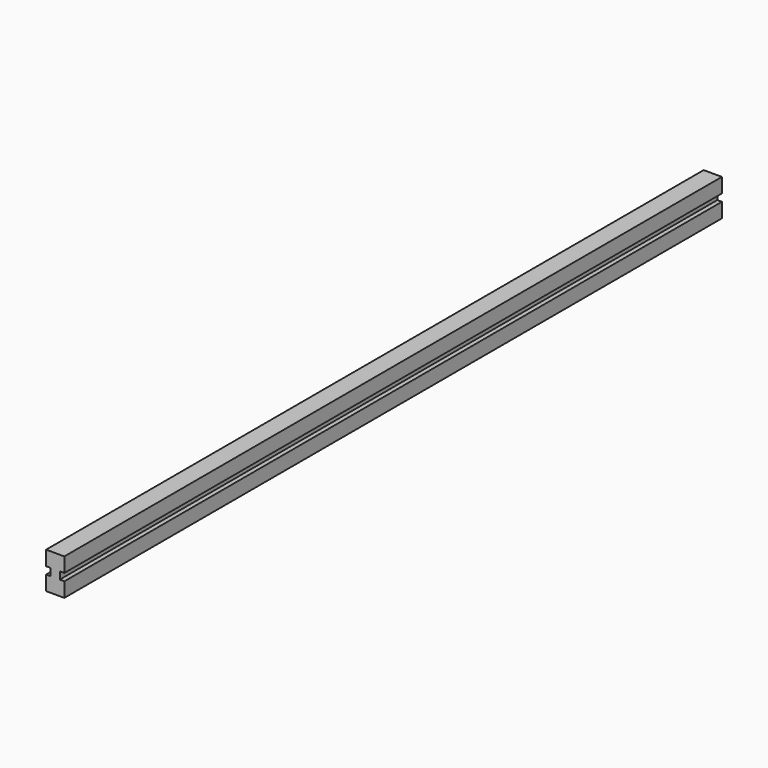
from build123d import *

# Parameters (mm, degrees)
F1_DEPTH      = 400
F1_DEPTH_BACK = 500


with BuildPart() as f1:
    # F0 (on Front) → F1 (new body, two sides)
    with BuildSketch(Plane.XZ) as f1_sk:
        Polygon((-10, -20), (10, -20), (10, -4), (5, -4), (5, 4), (10, 4), (10, 20), (-10, 20), (-10, 4), (-5, 4), (-5, -4), (-10, -4), align=None)
    extrude(amount=F1_DEPTH)
    extrude(f1_sk.sketch, amount=-F1_DEPTH_BACK)


solid = f1.part
